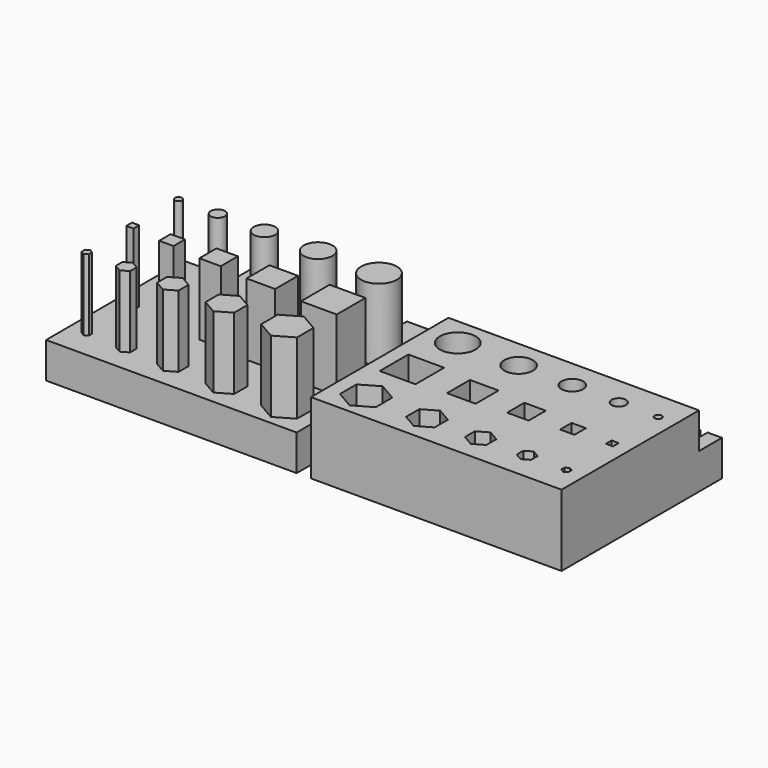
from build123d import *

# Parameters (mm, degrees)
F0_W     = 5
F0_H     = 4
F0_W_2   = 4
F0_W_3   = 2
F0_W_4   = 3
F0_W_5   = 1
F0_H_2   = 1
F0_H_3   = 2
F0_H_4   = 3
F0_H_5   = 5
F0_R     = 0.5
F0_R_2   = 1
F0_R_3   = 1.5
F0_R_4   = 2
F0_R_5   = 2.5
F1_DEPTH = 5
F2_DEPTH = 10
F3_DEPTH = 15


with BuildPart() as f1:
    # F0 (on Top) → F1 (new body)
    with BuildSketch(Plane.XY):
        with Locations((-5.5, 14)):
            Rectangle(F0_W, F0_H)
        with Locations((-14, 14)):
            Rectangle(F0_W_2, F0_H)
        with Locations((-28, 14)):
            Rectangle(F0_W_3, F0_H)
        with Locations((-21.5, 14)):
            Rectangle(F0_W_4, F0_H)
        with Locations((-33.5, 14)):
            Rectangle(F0_W_5, F0_H)
        Polygon((-34, 12), (-36, 12), (-36, -12), (-1, -12), (-1, 12), (-3, 12), (-8, 12), (-12, 12), (-16, 12), (-20, 12), (-23, 12), (-27, 12), (-29, 12), (-33, 12), align=None)
        Polygon((-34, -7.7113248654), (-33.5, -7.4226497308), (-33, -7.7113248654), (-33, -8.2886751346), (-33.5, -8.5773502692), (-34, -8.2886751346), align=None, mode=Mode.SUBTRACT)
        Polygon((-29, -7.4226497308), (-28, -6.8452994616), (-27, -7.4226497308), (-27, -8.5773502692), (-28, -9.1547005384), (-29, -8.5773502692), align=None, mode=Mode.SUBTRACT)
        Polygon((-23, -7.1339745962), (-21.5, -6.2679491924), (-20, -7.1339745962), (-20, -8.8660254038), (-21.5, -9.7320508076), (-23, -8.8660254038), align=None, mode=Mode.SUBTRACT)
        with Locations((-33.5, 0)):
            Rectangle(F0_W_5, F0_H_2, mode=Mode.SUBTRACT)
        with Locations((-28, 0)):
            Rectangle(F0_W_3, F0_H_3, mode=Mode.SUBTRACT)
        with Locations((-21.5, 0)):
            Rectangle(F0_W_4, F0_H_4, mode=Mode.SUBTRACT)
        Polygon((-16, -6.8452994616), (-14, -5.6905989232), (-12, -6.8452994616), (-12, -9.1547005384), (-14, -10.3094010768), (-16, -9.1547005384), align=None, mode=Mode.SUBTRACT)
        Polygon((-8, -9.443375673), (-8, -6.556624327), (-5.5, -5.1132486541), (-3, -6.556624327), (-3, -9.443375673), (-5.5, -10.8867513459), align=None, mode=Mode.SUBTRACT)
        with Locations((-14, 0)):
            Rectangle(F0_W_2, F0_H, mode=Mode.SUBTRACT)
        with Locations((-5.5, 0)):
            Rectangle(F0_W, F0_H_5, mode=Mode.SUBTRACT)
        with Locations((-33.5, 8)):
            Circle(F0_R, mode=Mode.SUBTRACT)
        with Locations((-28, 8)):
            Circle(F0_R_2, mode=Mode.SUBTRACT)
        with Locations((-21.5, 8)):
            Circle(F0_R_3, mode=Mode.SUBTRACT)
        with Locations((-14, 8)):
            Circle(F0_R_4, mode=Mode.SUBTRACT)
        with Locations((-5.5, 8)):
            Circle(F0_R_5, mode=Mode.SUBTRACT)
        Polygon((-12, -6.8452994616), (-14, -5.6905989232), (-16, -6.8452994616), (-16, -9.1547005384), (-14, -10.3094010768), (-12, -9.1547005384), align=None)
        Polygon((-20, -7.1339745962), (-21.5, -6.2679491924), (-23, -7.1339745962), (-23, -8.8660254038), (-21.5, -9.7320508076), (-20, -8.8660254038), align=None)
        with Locations((-5.5, 0)):
            Rectangle(F0_W, F0_H_5)
        with Locations((-28, 0)):
            Rectangle(F0_W_3, F0_H_3)
        with Locations((-14, 0)):
            Rectangle(F0_W_2, F0_H)
        with Locations((-21.5, 0)):
            Rectangle(F0_W_4, F0_H_4)
        with Locations((-28, 8)):
            Circle(F0_R_2)
        Polygon((-27, -7.4226497308), (-28, -6.8452994616), (-29, -7.4226497308), (-29, -8.5773502692), (-28, -9.1547005384), (-27, -8.5773502692), align=None)
        with Locations((-33.5, 8)):
            Circle(F0_R)
        Polygon((-33, -7.7113248654), (-33.5, -7.4226497308), (-34, -7.7113248654), (-34, -8.2886751346), (-33.5, -8.5773502692), (-33, -8.2886751346), align=None)
        with Locations((-33.5, 0)):
            Rectangle(F0_W_5, F0_H_2)
        with Locations((-5.5, 8)):
            Circle(F0_R_5)
        with Locations((-14, 8)):
            Circle(F0_R_4)
        with Locations((-21.5, 8)):
            Circle(F0_R_3)
        Polygon((-5.5, -5.1132486541), (-8, -6.556624327), (-8, -9.443375673), (-5.5, -10.8867513459), (-3, -9.443375673), (-3, -6.556624327), align=None)
    extrude(amount=F1_DEPTH)

    # F0 (on Top) → F3 (join)
    with BuildSketch(Plane.XY):
        with Locations((-21.5, 0)):
            Rectangle(F0_W_4, F0_H_4)
        with Locations((-28, 8)):
            Circle(F0_R_2)
        with Locations((-21.5, 8)):
            Circle(F0_R_3)
        Polygon((-5.5, -5.1132486541), (-8, -6.556624327), (-8, -9.443375673), (-5.5, -10.8867513459), (-3, -9.443375673), (-3, -6.556624327), align=None)
        Polygon((-27, -7.4226497308), (-28, -6.8452994616), (-29, -7.4226497308), (-29, -8.5773502692), (-28, -9.1547005384), (-27, -8.5773502692), align=None)
        with Locations((-5.5, 0)):
            Rectangle(F0_W, F0_H_5)
        with Locations((-14, 8)):
            Circle(F0_R_4)
        with Locations((-28, 0)):
            Rectangle(F0_W_3, F0_H_3)
        Polygon((-12, -6.8452994616), (-14, -5.6905989232), (-16, -6.8452994616), (-16, -9.1547005384), (-14, -10.3094010768), (-12, -9.1547005384), align=None)
        with Locations((-14, 0)):
            Rectangle(F0_W_2, F0_H)
        Polygon((-20, -7.1339745962), (-21.5, -6.2679491924), (-23, -7.1339745962), (-23, -8.8660254038), (-21.5, -9.7320508076), (-20, -8.8660254038), align=None)
        with Locations((-5.5, 8)):
            Circle(F0_R_5)
        with Locations((-33.5, 0)):
            Rectangle(F0_W_5, F0_H_2)
        with Locations((-33.5, 8)):
            Circle(F0_R)
        Polygon((-33, -7.7113248654), (-33.5, -7.4226497308), (-34, -7.7113248654), (-34, -8.2886751346), (-33.5, -8.5773502692), (-33, -8.2886751346), align=None)
    extrude(amount=F3_DEPTH)


with BuildPart() as f1b:
    # F0 (on Top) → F1, piece 2 (new body)
    with BuildSketch(Plane.XY):
        Polygon((1, 12), (1, -12), (36, -12), (36, 12), (34, 12), (33, 12), (29, 12), (27, 12), (23, 12), (20, 12), (16, 12), (12, 12), (8, 12), (3, 12), align=None)
        Polygon((5.5, -5.1132486541), (8, -6.556624327), (8, -9.443375673), (5.5, -10.8867513459), (3, -9.443375673), (3, -6.556624327), align=None, mode=Mode.SUBTRACT)
        Polygon((16, -6.8452994616), (16, -9.1547005384), (14, -10.3094010768), (12, -9.1547005384), (12, -6.8452994616), (14, -5.6905989232), align=None, mode=Mode.SUBTRACT)
        with Locations((5.5, 0)):
            Rectangle(F0_W, F0_H_5, mode=Mode.SUBTRACT)
        with Locations((14, 0)):
            Rectangle(F0_W_2, F0_H, mode=Mode.SUBTRACT)
        Polygon((20, -8.8660254038), (20, -7.1339745962), (21.5, -6.2679491924), (23, -7.1339745962), (23, -8.8660254038), (21.5, -9.7320508076), align=None, mode=Mode.SUBTRACT)
        Polygon((28, -9.1547005384), (27, -8.5773502692), (27, -7.4226497308), (28, -6.8452994616), (29, -7.4226497308), (29, -8.5773502692), align=None, mode=Mode.SUBTRACT)
        Polygon((33, -8.2886751346), (33, -7.7113248654), (33.5, -7.4226497308), (34, -7.7113248654), (34, -8.2886751346), (33.5, -8.5773502692), align=None, mode=Mode.SUBTRACT)
        with Locations((21.5, 0)):
            Rectangle(F0_W_4, F0_H_4, mode=Mode.SUBTRACT)
        with Locations((28, 0)):
            Rectangle(F0_W_3, F0_H_3, mode=Mode.SUBTRACT)
        with Locations((33.5, 0)):
            Rectangle(F0_W_5, F0_H_2, mode=Mode.SUBTRACT)
        with Locations((5.5, 8)):
            Circle(F0_R_5, mode=Mode.SUBTRACT)
        with Locations((14, 8)):
            Circle(F0_R_4, mode=Mode.SUBTRACT)
        with Locations((21.5, 8)):
            Circle(F0_R_3, mode=Mode.SUBTRACT)
        with Locations((28, 8)):
            Circle(F0_R_2, mode=Mode.SUBTRACT)
        with Locations((33.5, 8)):
            Circle(F0_R, mode=Mode.SUBTRACT)
        with Locations((5.5, 0)):
            Rectangle(F0_W, F0_H_5)
        Polygon((8, -9.443375673), (8, -6.556624327), (5.5, -5.1132486541), (3, -6.556624327), (3, -9.443375673), (5.5, -10.8867513459), align=None)
        with Locations((5.5, 8)):
            Circle(F0_R_5)
        with Locations((10, 14)):
            Rectangle(F0_W_2, F0_H)
        with Locations((14, 0)):
            Rectangle(F0_W_2, F0_H)
        with Locations((25, 14)):
            Rectangle(F0_W_2, F0_H)
        with Locations((31, 14)):
            Rectangle(F0_W_2, F0_H)
        with Locations((18, 14)):
            Rectangle(F0_W_2, F0_H)
        Polygon((14, -10.3094010768), (16, -9.1547005384), (16, -6.8452994616), (14, -5.6905989232), (12, -6.8452994616), (12, -9.1547005384), align=None)
        with Locations((14, 8)):
            Circle(F0_R_4)
        with Locations((21.5, 0)):
            Rectangle(F0_W_4, F0_H_4)
        with Locations((35, 14)):
            Rectangle(F0_W_3, F0_H)
        with Locations((2, 14)):
            Rectangle(F0_W_3, F0_H)
        Polygon((21.5, -6.2679491924), (20, -7.1339745962), (20, -8.8660254038), (21.5, -9.7320508076), (23, -8.8660254038), (23, -7.1339745962), align=None)
        with Locations((21.5, 8)):
            Circle(F0_R_3)
        with Locations((28, 0)):
            Rectangle(F0_W_3, F0_H_3)
        Polygon((27, -7.4226497308), (27, -8.5773502692), (28, -9.1547005384), (29, -8.5773502692), (29, -7.4226497308), (28, -6.8452994616), align=None)
        with Locations((28, 8)):
            Circle(F0_R_2)
        with Locations((33.5, 0)):
            Rectangle(F0_W_5, F0_H_2)
        Polygon((33.5, -7.4226497308), (33, -7.7113248654), (33, -8.2886751346), (33.5, -8.5773502692), (34, -8.2886751346), (34, -7.7113248654), align=None)
        with Locations((33.5, 8)):
            Circle(F0_R)
    extrude(amount=F1_DEPTH)

    # F0 (on Top) → F2 (join)
    with BuildSketch(Plane.XY):
        Polygon((1, 12), (1, -12), (36, -12), (36, 12), (34, 12), (33, 12), (29, 12), (27, 12), (23, 12), (20, 12), (16, 12), (12, 12), (8, 12), (3, 12), align=None)
        Polygon((5.5, -5.1132486541), (8, -6.556624327), (8, -9.443375673), (5.5, -10.8867513459), (3, -9.443375673), (3, -6.556624327), align=None, mode=Mode.SUBTRACT)
        Polygon((16, -6.8452994616), (16, -9.1547005384), (14, -10.3094010768), (12, -9.1547005384), (12, -6.8452994616), (14, -5.6905989232), align=None, mode=Mode.SUBTRACT)
        with Locations((5.5, 0)):
            Rectangle(F0_W, F0_H_5, mode=Mode.SUBTRACT)
        with Locations((14, 0)):
            Rectangle(F0_W_2, F0_H, mode=Mode.SUBTRACT)
        Polygon((20, -8.8660254038), (20, -7.1339745962), (21.5, -6.2679491924), (23, -7.1339745962), (23, -8.8660254038), (21.5, -9.7320508076), align=None, mode=Mode.SUBTRACT)
        Polygon((28, -9.1547005384), (27, -8.5773502692), (27, -7.4226497308), (28, -6.8452994616), (29, -7.4226497308), (29, -8.5773502692), align=None, mode=Mode.SUBTRACT)
        Polygon((33, -8.2886751346), (33, -7.7113248654), (33.5, -7.4226497308), (34, -7.7113248654), (34, -8.2886751346), (33.5, -8.5773502692), align=None, mode=Mode.SUBTRACT)
        with Locations((21.5, 0)):
            Rectangle(F0_W_4, F0_H_4, mode=Mode.SUBTRACT)
        with Locations((28, 0)):
            Rectangle(F0_W_3, F0_H_3, mode=Mode.SUBTRACT)
        with Locations((33.5, 0)):
            Rectangle(F0_W_5, F0_H_2, mode=Mode.SUBTRACT)
        with Locations((5.5, 8)):
            Circle(F0_R_5, mode=Mode.SUBTRACT)
        with Locations((14, 8)):
            Circle(F0_R_4, mode=Mode.SUBTRACT)
        with Locations((21.5, 8)):
            Circle(F0_R_3, mode=Mode.SUBTRACT)
        with Locations((28, 8)):
            Circle(F0_R_2, mode=Mode.SUBTRACT)
        with Locations((33.5, 8)):
            Circle(F0_R, mode=Mode.SUBTRACT)
    extrude(amount=F2_DEPTH)


solid = Compound([f1.part, f1b.part])
